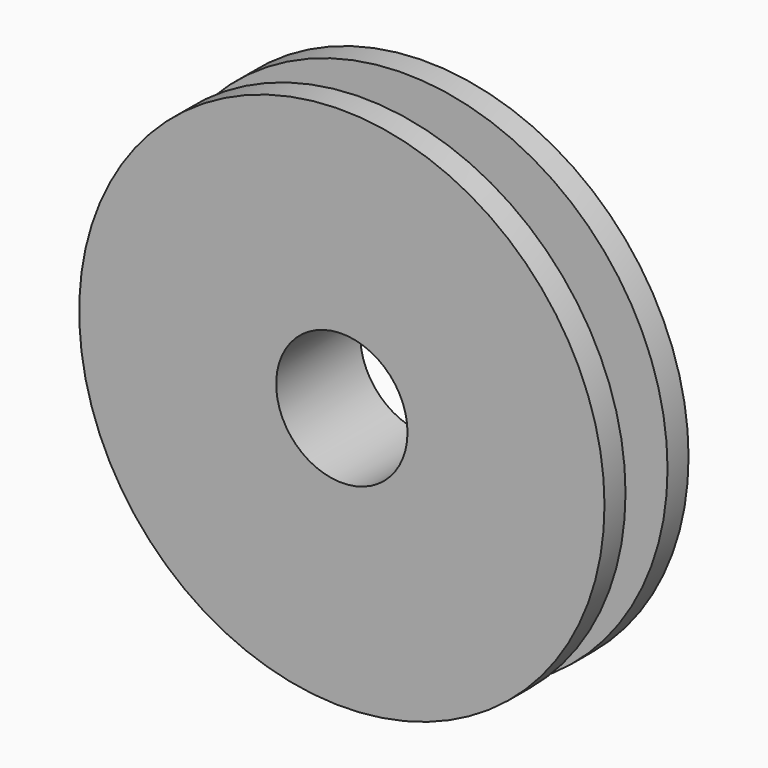
from build123d import *

# Parameters (mm, degrees)
F0_R     = 12.7
F1_DEPTH = 1.27
F2_R     = 8.255
F3_DEPTH = 2.54
F4_R     = 12.7
F5_DEPTH = 1.27
F6_R     = 3.175
F7_DEPTH = 25.4


with BuildPart() as f1:
    # F0 (on Front) → F1 (new body)
    with BuildSketch(Plane.XZ):
        Circle(F0_R)
    extrude(amount=F1_DEPTH)

    # F2 (on face) → F3 (join)
    with BuildSketch(Plane.XZ.offset(1.27)):
        Circle(F2_R)
    extrude(amount=F3_DEPTH)

    # F4 (on face) → F5 (join)
    with BuildSketch(Plane.XZ.offset(3.81)):
        Circle(F4_R)
    extrude(amount=F5_DEPTH)

    # F6 (on face) → F7 (cut)
    with BuildSketch(Plane.XZ.offset(5.08)):
        Circle(F6_R)
    extrude(amount=-F7_DEPTH, mode=Mode.SUBTRACT)


solid = f1.part
